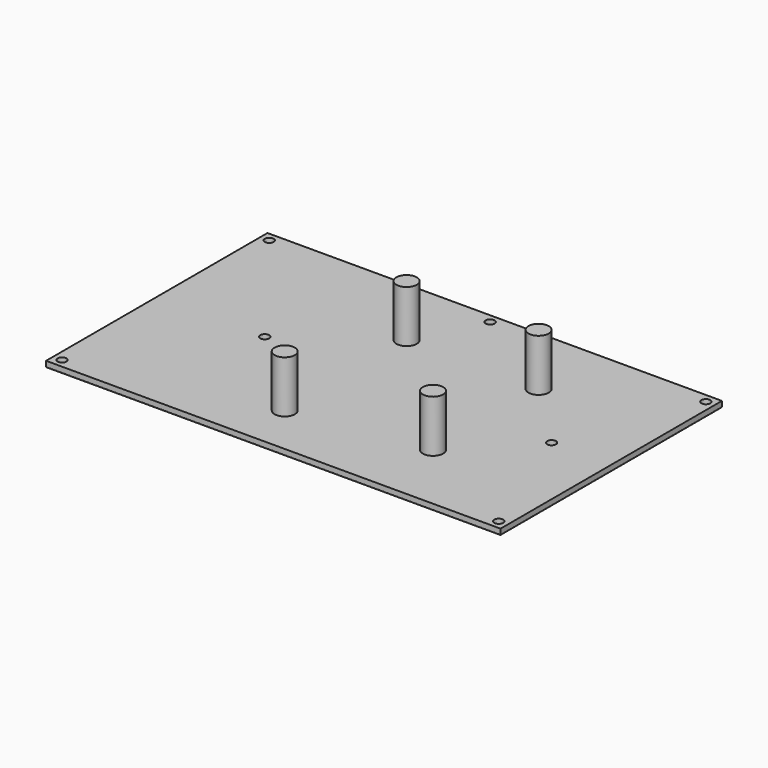
from build123d import *

# Parameters (mm, degrees)
F0_W     = 179
F0_H     = 109
F0_R     = 1.75
F0_R_2   = 4
F1_DEPTH = 2.4
F2_DEPTH = 20.5
F3_R     = 0.4


with BuildPart() as f1:
    # F0 (on Top) → F1 (new body)
    with BuildSketch(Plane.XY):
        with Locations((-1, -0.096982)):
            Rectangle(F0_W, F0_H)
        with Locations((-87, -51.096982)):
            Circle(F0_R, mode=Mode.SUBTRACT)
        with Locations((-12.5, -34.596982)):
            Circle(F0_R_2, mode=Mode.SUBTRACT)
        with Locations((85, -51.096982)):
            Circle(F0_R, mode=Mode.SUBTRACT)
        with Locations((39.5, -26.596982)):
            Circle(F0_R_2, mode=Mode.SUBTRACT)
        with Locations((-48, -0.096982)):
            Circle(F0_R, mode=Mode.SUBTRACT)
        with Locations((-12.5, 25.403018)):
            Circle(F0_R_2, mode=Mode.SUBTRACT)
        with Locations((-87, 50.903018)):
            Circle(F0_R, mode=Mode.SUBTRACT)
        with Locations((39.5, 25.403018)):
            Circle(F0_R_2, mode=Mode.SUBTRACT)
        with Locations((65, -0.096982)):
            Circle(F0_R, mode=Mode.SUBTRACT)
        with Locations((0, 50.903018)):
            Circle(F0_R, mode=Mode.SUBTRACT)
        with Locations((85, 50.903018)):
            Circle(F0_R, mode=Mode.SUBTRACT)
        with Locations((-12.5, 25.403018)):
            Circle(F0_R_2)
        with Locations((39.5, 25.403018)):
            Circle(F0_R_2)
        with Locations((-12.5, -34.596982)):
            Circle(F0_R_2)
        with Locations((39.5, -26.596982)):
            Circle(F0_R_2)
    extrude(amount=-F1_DEPTH)

    # F0 (on Top) → F2 (join)
    with BuildSketch(Plane.XY):
        with Locations((-12.5, 25.403018)):
            Circle(F0_R_2)
        with Locations((-12.5, -34.596982)):
            Circle(F0_R_2)
        with Locations((39.5, -26.596982)):
            Circle(F0_R_2)
        with Locations((39.5, 25.403018)):
            Circle(F0_R_2)
    extrude(amount=F2_DEPTH)

    # F3
    f3_edges = [f1.edges().sort_by_distance(p)[0] for p in [
        (-1, 54.403018, -2.4),
        (-90.5, -0.096982, -2.4),
        (88.5, -0.096982, -2.4),
        (-1, -54.596982, -2.4),
    ]]
    fillet(f3_edges, radius=F3_R)


solid = f1.part
